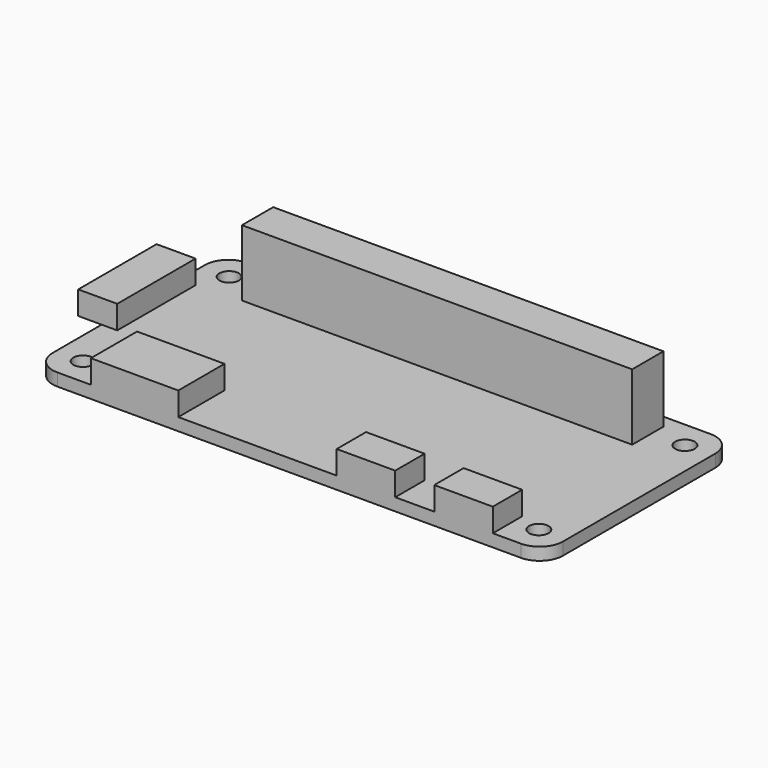
from build123d import *

# Parameters (mm, degrees)
SKETCH_W      = 65.4
SKETCH_H      = 30.4
PAD_DEPTH     = 1.6
FILLET_R      = 3
SKETCH001_W   = 7.5
SKETCH001_H   = 4.7
SKETCH001_W_2 = 5
SKETCH001_H_2 = 12.55
SKETCH001_W_3 = 11.2
SKETCH001_H_3 = 7.4
PAD001_DEPTH  = 3
SKETCH002_R   = 1.25
POCKET_DEPTH  = 5
SKETCH003_W   = 50
SKETCH003_H   = 5
PAD002_DEPTH  = 8.5


with BuildPart() as part:
    # Sketch → Pad (new body)
    with BuildSketch(Plane.XY):
        Rectangle(SKETCH_W, SKETCH_H)
    extrude(amount=PAD_DEPTH)

    # Fillet
    fillet_edges = [part.edges().sort_by_distance(p)[0] for p in [
        (32.7, -15.2, 0.8),
        (-32.7, -15.2, 0.8),
        (-32.7, 15.2, 0.8),
        (32.7, 15.2, 0.8),
    ]]
    fillet(fillet_edges, radius=FILLET_R)

    # Sketch001 (on Face5 of Fillet) → Pad001 (join)
    with BuildSketch(Plane.XY.offset(1.6)):
        with Locations((9.85, -12.85)):
            Rectangle(SKETCH001_W, SKETCH001_H)
        with Locations((22.35, -12.85)):
            Rectangle(SKETCH001_W, SKETCH001_H)
        with Locations((-33.2, 1.925)):
            Rectangle(SKETCH001_W_2, SKETCH001_H_2)
        with Locations((-19.8, -11.5)):
            Rectangle(SKETCH001_W_3, SKETCH001_H_3)
    extrude(amount=PAD001_DEPTH)

    # Sketch002 (on Face2 of Pad001) → Pocket (cut)
    with BuildSketch(Plane(origin=(0, 0, 0), x_dir=(1, 0, 0), z_dir=(0, 0, -1))):
        with Locations((-29.2, 11.7)):
            Circle(SKETCH002_R)
        with Locations((29.2, -11.7)):
            Circle(SKETCH002_R)
        with Locations((29.2, 11.7)):
            Circle(SKETCH002_R)
        with Locations((-29.2, -11.7)):
            Circle(SKETCH002_R)
    extrude(amount=-POCKET_DEPTH, mode=Mode.SUBTRACT)

    # Sketch003 (on Face5 of Pocket) → Pad002 (join)
    with BuildSketch(Plane.XY.offset(1.6)):
        with Locations((0, 11)):
            Rectangle(SKETCH003_W, SKETCH003_H)
    extrude(amount=PAD002_DEPTH)


solid = part.part
